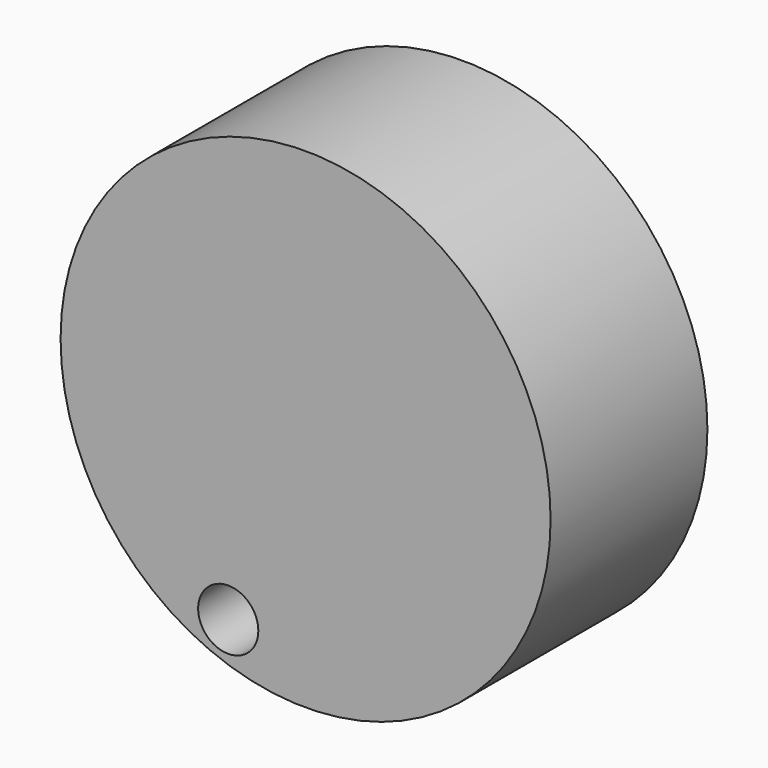
from build123d import *

# Parameters (mm, degrees)
F0_R     = 25
F0_R_2   = 3.0710823744
F1_DEPTH = 20
F2_D     = 10
F2_DEPTH = 15
F2_TIP   = 3.0043030951


with BuildPart() as f1:
    # F0 (on Front) → F1 (new body)
    with BuildSketch(Plane.XZ):
        Circle(F0_R)
        with Locations((-7.8937942162, -19.6690410376)):
            Circle(F0_R_2, mode=Mode.SUBTRACT)
    extrude(amount=F1_DEPTH)

    # F2
    with Locations(Plane(origin=(0, 0, 0), x_dir=(1, 0, 0), z_dir=(0, 1, 0))):
        with Locations((0, 0)):
            Hole(F2_D / 2, depth=F2_DEPTH)
            with Locations((0, 0, -(F2_DEPTH + F2_TIP / 2))):  # 118° drill point
                Cone(0, F2_D / 2, F2_TIP, mode=Mode.SUBTRACT)


solid = f1.part
